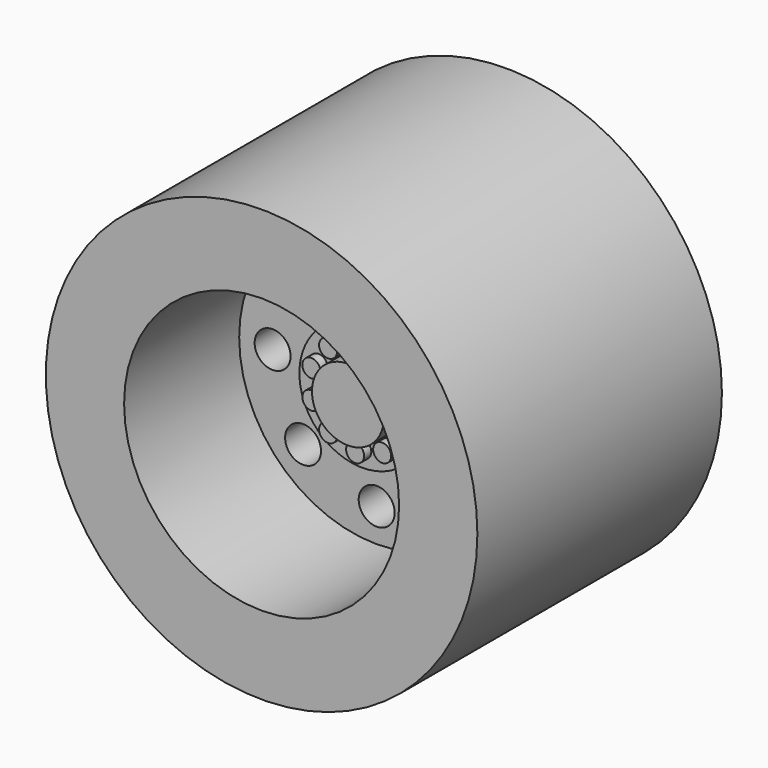
from build123d import *

# Parameters (mm, degrees)
F0_R      = 19.05
F1_DEPTH  = 14.2875
F2_R      = 1.5875
F3_DEPTH  = 20.32
F5_R      = 3.175
F6_DEPTH  = 3.175
F4_R      = 5.55625
F7_DEPTH  = 1.5875
F8_R      = 0.79375
F9_DEPTH  = 0.79375
F10_R     = 3.175
F11_DEPTH = 9.525
F12_R     = 19.05
F12_R_2   = 12.139806815
F13_DEPTH = 12.7


with BuildPart() as f1:
    # F0 (on Front) → F1 (new body)
    with BuildSketch(Plane.XZ):
        Circle(F0_R)
    extrude(amount=F1_DEPTH)

    # F2 (on face) → F3 (cut)
    with BuildSketch(Plane.XZ.offset(14.2875)):
        with Locations((0, 9.1884150909)):
            Circle(F2_R)
        with Locations((6.4971906191, 6.4971906191)):
            Circle(F2_R)
        with Locations((9.1884150909, 0)):
            Circle(F2_R)
        with Locations((6.4971906191, -6.4971906191)):
            Circle(F2_R)
        with Locations((0, -9.1884150909)):
            Circle(F2_R)
        with Locations((-6.4971906191, -6.4971906191)):
            Circle(F2_R)
        with Locations((-9.1884150909, 0)):
            Circle(F2_R)
        with Locations((-6.4971906191, 6.4971906191)):
            Circle(F2_R)
    extrude(amount=-F3_DEPTH, mode=Mode.SUBTRACT)

    # F5 (on face) → F6 (join)
    with BuildSketch(Plane.XZ.offset(14.2875)):
        Circle(F5_R)
    extrude(amount=F6_DEPTH)

    # F4 (on face) → F7 (join)
    with BuildSketch(Plane.XZ.offset(14.2875)):
        Circle(F4_R)
    extrude(amount=F7_DEPTH)

    # F10 (on face) → F11 (join)
    with BuildSketch(Plane(origin=(0, 0, 0), x_dir=(-1, 0, 0), z_dir=(0, 1, 0))):
        Circle(F10_R)
    extrude(amount=F11_DEPTH)

    # F12 (on face) → F13 (join)
    with BuildSketch(Plane.XZ.offset(14.2875)):
        Circle(F12_R)
        Circle(F12_R_2, mode=Mode.SUBTRACT)
    extrude(amount=F13_DEPTH)


with BuildPart() as f9:
    # F8 (on face) → F9 (new body)
    with BuildSketch(Plane.XZ.offset(15.875)):
        with Locations((0, 4.0617209223)):
            Circle(F8_R)
    extrude(amount=F9_DEPTH)


with BuildPart() as f9b:
    # F8 (on face) → F9, piece 2 (new body)
    with BuildSketch(Plane.XZ.offset(15.875)):
        with Locations((2.387419657, 3.2860012525)):
            Circle(F8_R)
    extrude(amount=F9_DEPTH)


with BuildPart() as f9c:
    # F8 (on face) → F9, piece 3 (new body)
    with BuildSketch(Plane.XZ.offset(15.875)):
        with Locations((3.8629261505, 1.2551407914)):
            Circle(F8_R)
    extrude(amount=F9_DEPTH)


with BuildPart() as f9d:
    # F8 (on face) → F9, piece 4 (new body)
    with BuildSketch(Plane.XZ.offset(15.875)):
        with Locations((3.8629261505, -1.2551407914)):
            Circle(F8_R)
    extrude(amount=F9_DEPTH)


with BuildPart() as f9e:
    # F8 (on face) → F9, piece 5 (new body)
    with BuildSketch(Plane.XZ.offset(15.875)):
        with Locations((2.387419657, -3.2860012525)):
            Circle(F8_R)
    extrude(amount=F9_DEPTH)


with BuildPart() as f9f:
    # F8 (on face) → F9, piece 6 (new body)
    with BuildSketch(Plane.XZ.offset(15.875)):
        with Locations((0, -4.0617209223)):
            Circle(F8_R)
    extrude(amount=F9_DEPTH)


with BuildPart() as f9g:
    # F8 (on face) → F9, piece 7 (new body)
    with BuildSketch(Plane.XZ.offset(15.875)):
        with Locations((-2.387419657, -3.2860012525)):
            Circle(F8_R)
    extrude(amount=F9_DEPTH)


with BuildPart() as f9h:
    # F8 (on face) → F9, piece 8 (new body)
    with BuildSketch(Plane.XZ.offset(15.875)):
        with Locations((-3.8629261505, -1.2551407914)):
            Circle(F8_R)
    extrude(amount=F9_DEPTH)


with BuildPart() as f9i:
    # F8 (on face) → F9, piece 9 (new body)
    with BuildSketch(Plane.XZ.offset(15.875)):
        with Locations((-3.8629261505, 1.2551407914)):
            Circle(F8_R)
    extrude(amount=F9_DEPTH)


with BuildPart() as f9j:
    # F8 (on face) → F9, piece 10 (new body)
    with BuildSketch(Plane.XZ.offset(15.875)):
        with Locations((-2.387419657, 3.2860012525)):
            Circle(F8_R)
    extrude(amount=F9_DEPTH)


solid = Compound([f1.part, f9.part, f9b.part, f9c.part, f9d.part, f9e.part, f9f.part, f9g.part, f9h.part, f9i.part, f9j.part])
